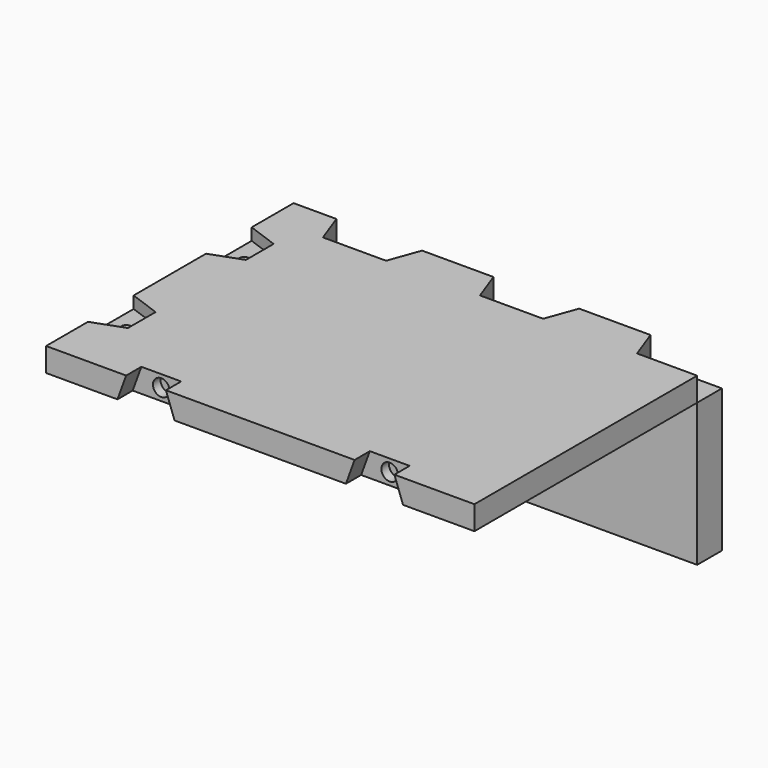
from build123d import *

# Parameters (mm, degrees)
BINDER_W        = 65
BINDER_H        = 90
PAD_DEPTH       = 5
POCKET_DEPTH    = 5.001
POCKET001_DEPTH = 2.5
POCKET002_DEPTH = 4
SKETCH007_R     = 1.75
POCKET003_DEPTH = 6
SKETCH008_R     = 1
POCKET004_DEPTH = 5.001
SKETCH002_W     = 90
SKETCH002_H     = 6.5
PAD001_DEPTH    = 30


with BuildPart() as body001:
    # Binder → Pad (new body)
    with BuildSketch(Plane(origin=(0, 0, 0), x_dir=(0, 1, 0), z_dir=(0, 0, 1))):
        Rectangle(BINDER_W, BINDER_H)
    extrude(amount=-PAD_DEPTH)

    # Sketch004 (on Face5 of Pad) → Pocket (cut, through all)
    with BuildSketch(Plane.XY):
        Polygon((45, 32.5), (45, 26), (32.365807, 26), (30, 32.5), align=None)
        Polygon((15, 32.5), (12.634193, 26), (-0.634193, 26), (-3, 32.5), align=None)
        Polygon((-18, 32.5), (-20.365807, 26), (-33.634193, 26), (-36, 32.5), align=None)
    extrude(amount=-POCKET_DEPTH, mode=Mode.SUBTRACT)

    # Sketch005 (on Face5 of Pad) → Pocket001 (cut)
    with BuildSketch(Plane.XY):
        Polygon((-45, 21.5), (-38.5, 19.134195), (-38.5, 11.865805), (-45, 9.5), align=None)
        Polygon((-45, -9.5), (-38.5, -11.865805), (-38.5, -19.134195), (-45, -21.5), align=None)
    extrude(amount=-POCKET001_DEPTH, mode=Mode.SUBTRACT)

    # Sketch006 (on Face1 of Pad) → Pocket002 (cut)
    with BuildSketch(Plane.XZ.offset(32.5)):
        Polygon((-30, -5), (-28.180149, 0), (-19.819851, 0), (-18, -5), align=None)
        Polygon((30, -5), (28.180149, 0), (19.819851, 0), (18, -5), align=None)
    extrude(amount=-POCKET002_DEPTH, mode=Mode.SUBTRACT)

    # Sketch007 (on Face1 of Pad) → Pocket003 (cut)
    with BuildSketch(Plane.XZ.offset(32.5)):
        with Locations((-24, -2.5)):
            Circle(SKETCH007_R)
        with Locations((24, -2.5)):
            Circle(SKETCH007_R)
    extrude(amount=-POCKET003_DEPTH, mode=Mode.SUBTRACT)

    # Sketch008 (on Face5 of Pad) → Pocket004 (cut, through all)
    with BuildSketch(Plane.XY):
        with Locations((-41.75, 15.5)):
            Circle(SKETCH008_R)
        with Locations((-41.75, -15.5)):
            Circle(SKETCH008_R)
    extrude(amount=-POCKET004_DEPTH, mode=Mode.SUBTRACT)


with BuildPart() as body002:
    # Sketch002 (on Face1 of Binder001) → Pad001 (new body)
    with BuildSketch(Plane.XY.offset(-5)):
        with Locations((0, 29.25)):
            Rectangle(SKETCH002_W, SKETCH002_H)
    extrude(amount=-PAD001_DEPTH)


solid = Compound([body001.part, body002.part])
